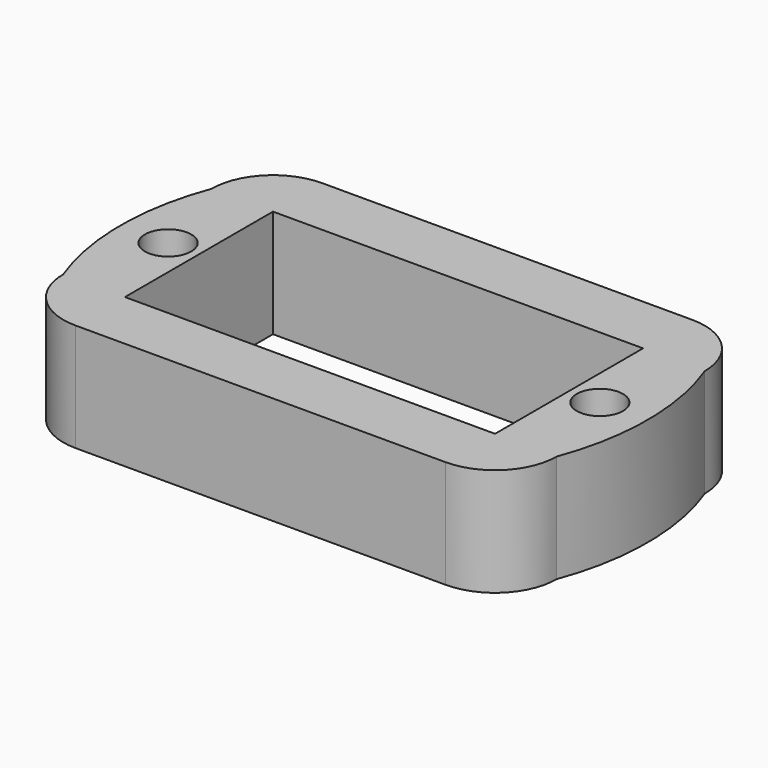
from build123d import *

# Parameters (mm, degrees)
SKETCH_R  = 1.5
PAD_DEPTH = 7


with BuildPart() as part:
    # Sketch → Pad (new body)
    with BuildSketch(Plane.XY):
        with BuildLine():
            Line((0, 15.997543), (24, 15.997543))
            ThreePointArc((27.998177, 11.999997), (26.8271, 14.826912), (24, 15.997543))
            ThreePointArc((27.998811, 0), (29.086586, 6.000056), (27.998177, 11.999997))
            ThreePointArc((24, -3.998177), (26.827548, -2.827362), (27.998811, 0))
            Line((0, -3.998177), (24, -3.998177))
            ThreePointArc((-3.998177, 0), (-2.827138, -2.827138), (0, -3.998177))
            ThreePointArc((-3.997546, 11.999992), (-5.086015, 6.000054), (-3.998177, 0))
            ThreePointArc((0, 15.997543), (-2.826693, 14.826687), (-3.997546, 11.999992))
        make_face()
        with Locations((-2.001505, 5.998805)):
            Circle(SKETCH_R, mode=Mode.SUBTRACT)
        with Locations((26.000681, 5.998509)):
            Circle(SKETCH_R, mode=Mode.SUBTRACT)
        Polygon((0, 0), (24.000633, 0), (24.000632, 4.5), (24.000632, 7.5), (24.000632, 11.999997), (0, 11.999997), (0, 7.5), (0, 4.5), align=None, mode=Mode.SUBTRACT)
    extrude(amount=PAD_DEPTH)


solid = part.part
